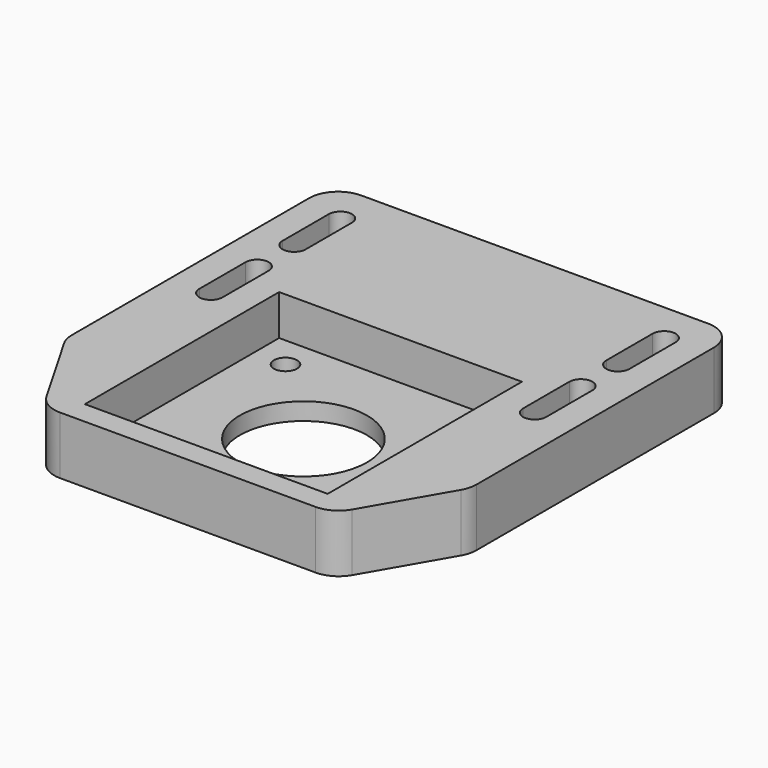
from build123d import *

# Parameters (mm, degrees)
SKETCH_W                        = 50
SKETCH_H                        = 50
PAD_DEPTH                       = 10
SKETCH001_W                     = 42
SKETCH001_H                     = 42
POCKET_DEPTH                    = 7
SKETCH002_R                     = 11
POCKET001_DEPTH                 = 3.001
SKETCH005_R                     = 2
POCKET004_DEPTH                 = 5
PAD001_DEPTH                    = 10
POCKET005_DEPTH                 = 216.156281
POCKET005_LINEARPATTERN_2_DEPTH = 216.156281
LINEARPATTERN001_COUNT          = 2
LINEARPATTERN001_PITCH          = 18
FILLET_R                        = 5


with BuildPart() as part:
    # Sketch → Pad (new body)
    with BuildSketch(Plane.XY):
        Rectangle(SKETCH_W, SKETCH_H)
    extrude(amount=PAD_DEPTH)

    # Sketch001 (on Face6 of Pad) → Pocket (cut)
    with BuildSketch(Plane.XY.offset(10)):
        Rectangle(SKETCH001_W, SKETCH001_H)
    extrude(amount=-POCKET_DEPTH, mode=Mode.SUBTRACT)

    # Sketch002 (on Face11 of Pocket) → Pocket001 (cut, through all)
    with BuildSketch(Plane.XY.offset(3)):
        Circle(SKETCH002_R)
    extrude(amount=-POCKET001_DEPTH, mode=Mode.SUBTRACT)

    # Sketch005 → Pocket004 (cut)
    with BuildSketch(Plane.XY.offset(5)):
        with Locations((-15.5, 15.5)):
            Circle(SKETCH005_R)
        with Locations((15.5, 15.5)):
            Circle(SKETCH005_R)
        with Locations((15.5, -15.5)):
            Circle(SKETCH005_R)
        with Locations((-15.5, -15.5)):
            Circle(SKETCH005_R)
    extrude(amount=-POCKET004_DEPTH, mode=Mode.SUBTRACT)

    # Sketch006 → Pad001 (join)
    with BuildSketch(Plane.XY):
        Polygon((-25, 25), (25, 25), (25, -25), (35, -7.679492), (35, 50), (-35, 50), (-35, -7.679492), (-25, -25), align=None)
    extrude(amount=PAD001_DEPTH)

    # Sketch007 → Pocket005 (cut, through all)
    with BuildSketch(Plane.XY):
        with BuildLine():
            ThreePointArc((-30, 15), (-28, 13), (-26, 15))
            Line((-26, 15), (-26, 25))
            ThreePointArc((-26, 25), (-28, 27), (-30, 25))
            Line((-30, 15), (-30, 25))
        make_face()
    pocket005 = extrude(amount=POCKET005_DEPTH, mode=Mode.SUBTRACT)

    # Sketch007 LinearPattern 2 → Pocket005 LinearPattern 2 (cut, through all)
    with BuildSketch(Plane(origin=(56, 0, 0), x_dir=(1, 0, 0), z_dir=(0, 0, 1))):
        with BuildLine():
            ThreePointArc((-30, 15), (-28, 13), (-26, 15))
            Line((-26, 15), (-26, 25))
            ThreePointArc((-26, 25), (-28, 27), (-30, 25))
            Line((-30, 15), (-30, 25))
        make_face()
    pocket005_linearpattern_2 = extrude(amount=POCKET005_LINEARPATTERN_2_DEPTH, mode=Mode.SUBTRACT)

    # LinearPattern001: Pocket005, Pocket005 LinearPattern 2 ×2
    with Locations(*[(0, i * LINEARPATTERN001_PITCH, 0) for i in range(1, LINEARPATTERN001_COUNT)]):
        add(pocket005, mode=Mode.SUBTRACT)
        add(pocket005_linearpattern_2, mode=Mode.SUBTRACT)

    # Fillet
    fillet_edges = [part.edges().sort_by_distance(p)[0] for p in [
        (-35, 50, 5),
        (35, 50, 5),
        (-25, -25, 5),
        (25, -25, 5),
        (35, -7.679492, 5),
        (-35, -7.679492, 5),
    ]]
    fillet(fillet_edges, radius=FILLET_R)


solid = part.part
